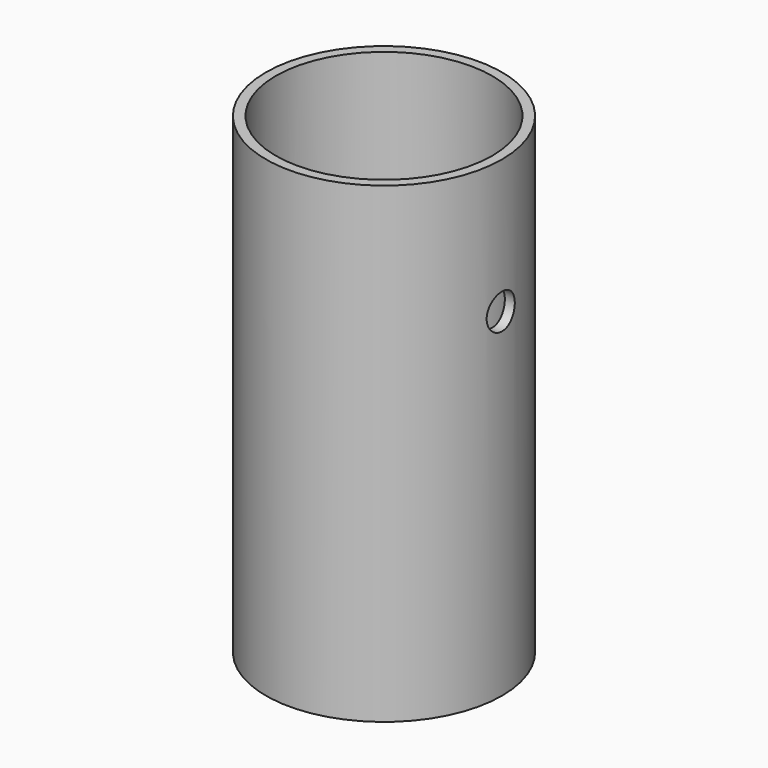
from build123d import *

# Parameters (mm, degrees)
F0_R     = 15
F0_R_2   = 13.5
F1_DEPTH = 30
F0_R_3   = 12.5
F2_DEPTH = 30
F3_R     = 2.2347042808
F4_DEPTH = 50
F5_R     = 13.75
F6_DEPTH = 30
F7_R     = 12.75
F8_DEPTH = 30


with BuildPart() as f1:
    # F0 (on Top) → F1 (new body)
    with BuildSketch(Plane.XY):
        Circle(F0_R)
        Circle(F0_R_2, mode=Mode.SUBTRACT)
    extrude(amount=F1_DEPTH)

    # F0 (on Top) → F2 (join)
    with BuildSketch(Plane.XY):
        Circle(F0_R)
        Circle(F0_R_2, mode=Mode.SUBTRACT)
        Circle(F0_R_2)
        Circle(F0_R_3, mode=Mode.SUBTRACT)
    extrude(amount=-F2_DEPTH)

    # F3 (on Right) → F4 (cut, symmetric)
    with BuildSketch(Plane.YZ):
        with Locations((0, 13)):
            Circle(F3_R)
    extrude(amount=F4_DEPTH, both=True, mode=Mode.SUBTRACT)

    # F5 (on face) → F6 (cut)
    with BuildSketch(Plane.XY.offset(30)):
        Circle(F5_R)
    extrude(amount=-F6_DEPTH, mode=Mode.SUBTRACT)

    # F7 (on face) → F8 (cut)
    with BuildSketch(Plane(origin=(0, 0, -30), x_dir=(1, 0, 0), z_dir=(0, 0, -1))):
        Circle(F7_R)
    extrude(amount=-F8_DEPTH, mode=Mode.SUBTRACT)


solid = f1.part
